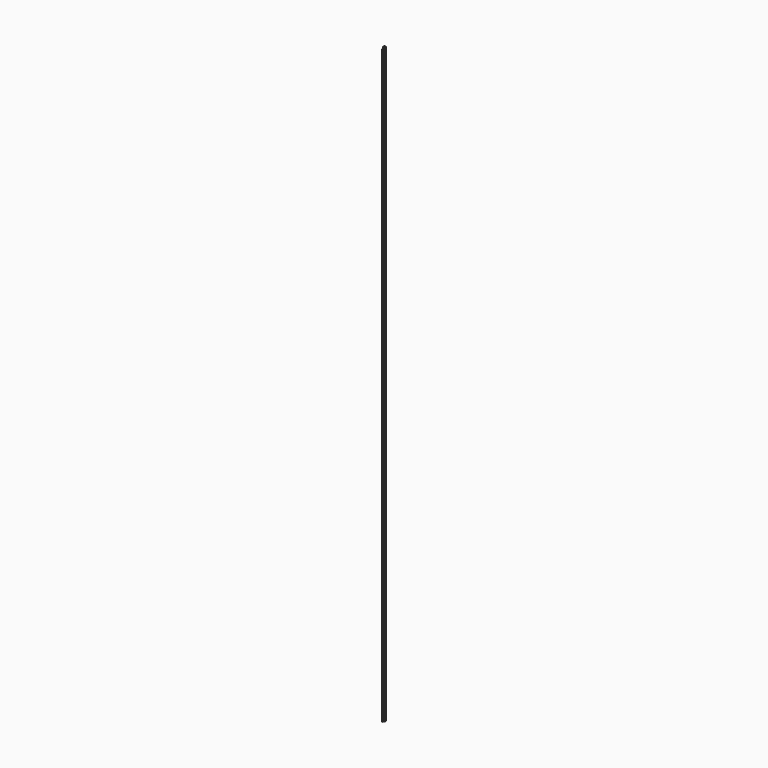
from build123d import *

# Parameters (mm, degrees)
F0_W     = 24
F0_H     = 24
F1_DEPTH = 10000
F2_DEPTH = 25
F3_T     = -2
F4_W     = 2
F4_H     = 22
F5_DEPTH = 10000


with BuildPart() as f1:
    # F0 (on Top) → F1 (new body)
    with BuildSketch(Plane.XY):
        Rectangle(F0_W, F0_H)
    extrude(amount=F1_DEPTH)

    # F2 (add): a face of the model
    f2_faces = [f1.faces().sort_by_distance(p)[0] for p in [
        (0, 0, 10000),
    ]]
    extrude(f2_faces, amount=F2_DEPTH)

    # F3
    f3_openings = [f1.faces().sort_by_distance(p)[0] for p in [
        (0, 0, 10025),
        (0, 0, 0),
    ]]
    offset(amount=F3_T, openings=f3_openings)

    # F4 (on Top) → F5 (join)
    with BuildSketch(Plane.XY):
        with Locations((-11, -23)):
            Rectangle(F4_W, F4_H)
    extrude(amount=F5_DEPTH)


solid = f1.part
